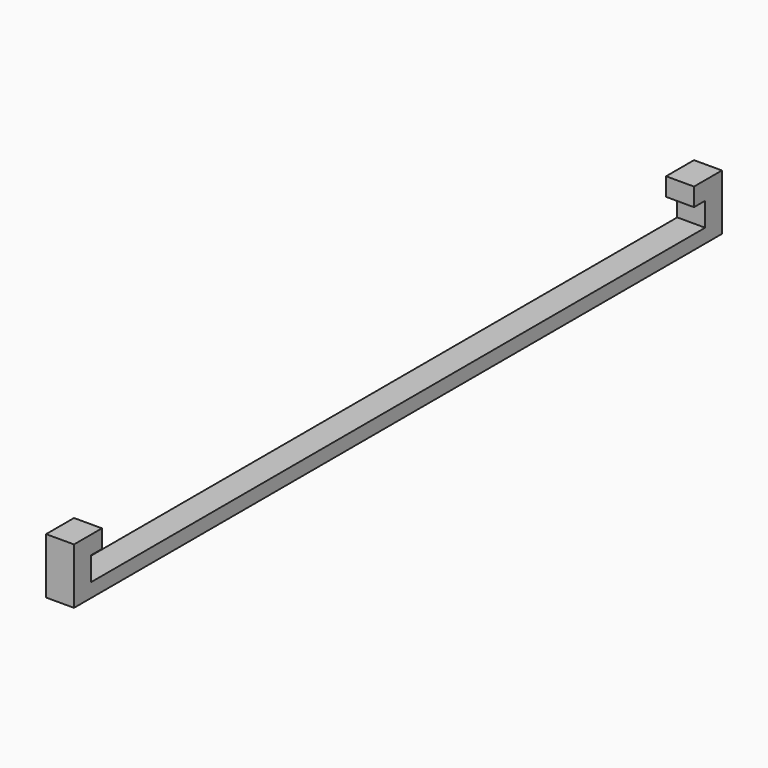
from build123d import *

# Parameters (mm, degrees)
SKETCH_W     = 2
SKETCH_H     = 58
PAD_DEPTH    = 1
SKETCH001_W  = 2
SKETCH001_H  = 1.5
PAD001_DEPTH = 3
SKETCH002_W  = 2
SKETCH002_H  = 1.3
PAD002_DEPTH = 1
SKETCH003_W  = 2
SKETCH003_H  = 1.3
PAD003_DEPTH = 1


with BuildPart() as part:
    # Sketch → Pad (new body)
    with BuildSketch(Plane.XY):
        with Locations((1, 29)):
            Rectangle(SKETCH_W, SKETCH_H)
    extrude(amount=PAD_DEPTH)

    # Sketch001 (on Face6 of Pad) → Pad001 (join)
    with BuildSketch(Plane.XY.offset(1)):
        with Locations((1, 0.75)):
            Rectangle(SKETCH001_W, SKETCH001_H)
        with Locations((1, 57.25)):
            Rectangle(SKETCH001_W, SKETCH001_H)
    extrude(amount=PAD001_DEPTH)

    # Sketch002 (on Face14 of Pad001) → Pad002 (join)
    with BuildSketch(Plane.XZ.offset(-56.5)):
        with Locations((1, 3.35)):
            Rectangle(SKETCH002_W, SKETCH002_H)
    extrude(amount=PAD002_DEPTH)

    # Sketch003 (on Face17 of Pad002) → Pad003 (join)
    with BuildSketch(Plane(origin=(0, 1.5, 0), x_dir=(-1, 0, 0), z_dir=(0, 1, 0))):
        with Locations((-1, 3.35)):
            Rectangle(SKETCH003_W, SKETCH003_H)
    extrude(amount=PAD003_DEPTH)


solid = part.part
